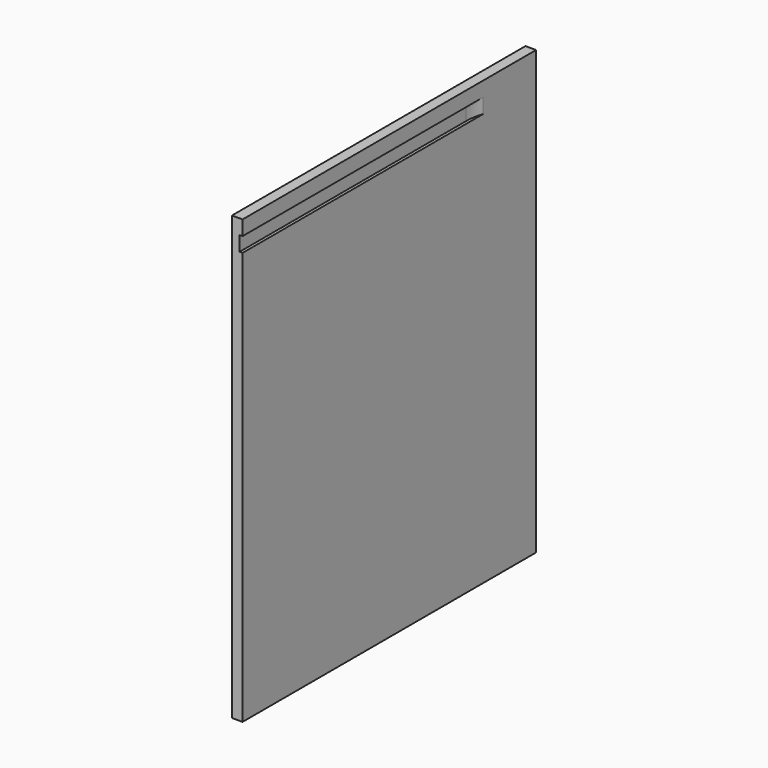
from build123d import *

# Parameters (mm, degrees)
F0_W     = 622
F0_H     = 750
F1_DEPTH = 18
F4_DEPTH = 25


with BuildPart() as f1:
    # F0 (on Right) → F1 (new body)
    with BuildSketch(Plane.YZ):
        with Locations((2.7661435306, 76.1857503125)):
            Rectangle(F0_W, F0_H)
    extrude(amount=F1_DEPTH)

    # F3 (on offset) → F4 (cut)
    with BuildSketch(Plane.XY.offset(426.1857503125)):
        with BuildLine():
            Line((0, -308.2338564694), (5, -308.2338564694))
            Line((5, -308.2338564694), (5, 171.7661435306))
            ThreePointArc((5, 171.7661435306), (3.7414379545, 186.9730498564), (0, 201.7661435306))
            Line((0, 201.7661435306), (0, -308.2338564694))
        make_face()
    extrude(amount=-F4_DEPTH, mode=Mode.SUBTRACT)


with BuildPart() as f5_1:
    # F5: instance of F1
    add(f1.part.mirror(Plane.YZ))


solid = f5_1.part
